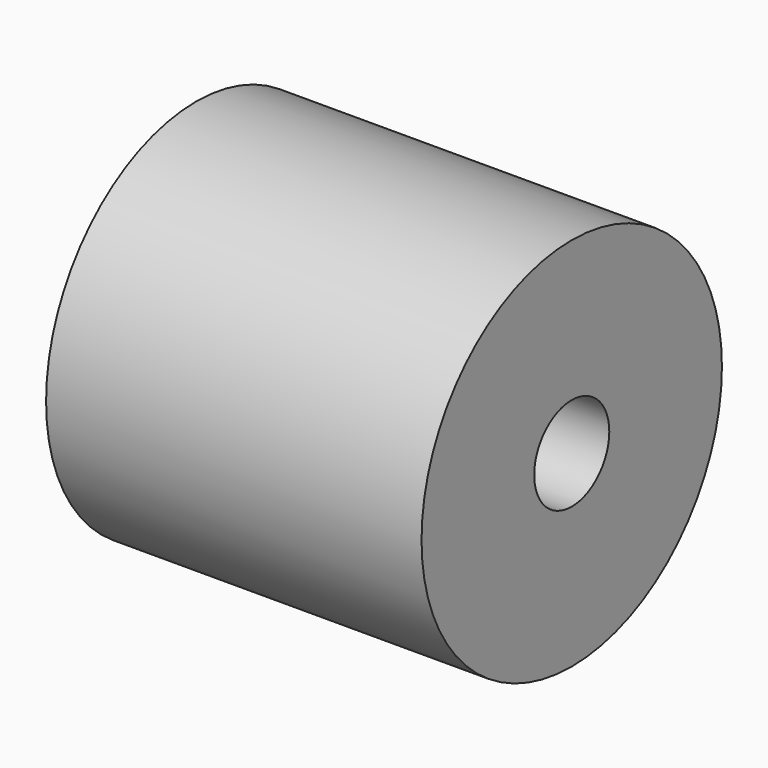
from build123d import *

# Parameters (mm, degrees)
F0_W     = 40
F0_H     = 20
F2_R     = 5
F3_DEPTH = 40.001


with BuildPart() as f1:
    # F0 (on Front) → F1 (revolve)
    with BuildSketch(Plane.XZ):
        with Locations((-0.032582, 10)):
            Rectangle(F0_W, F0_H)
    revolve(axis=Axis((-0.032582, 0, 0), (1, 0, 0)))

    # F2 (on face) → F3 (cut, through all)
    with BuildSketch(Plane.YZ.offset(19.967418)):
        Circle(F2_R)
    extrude(amount=-F3_DEPTH, mode=Mode.SUBTRACT)


solid = f1.part
